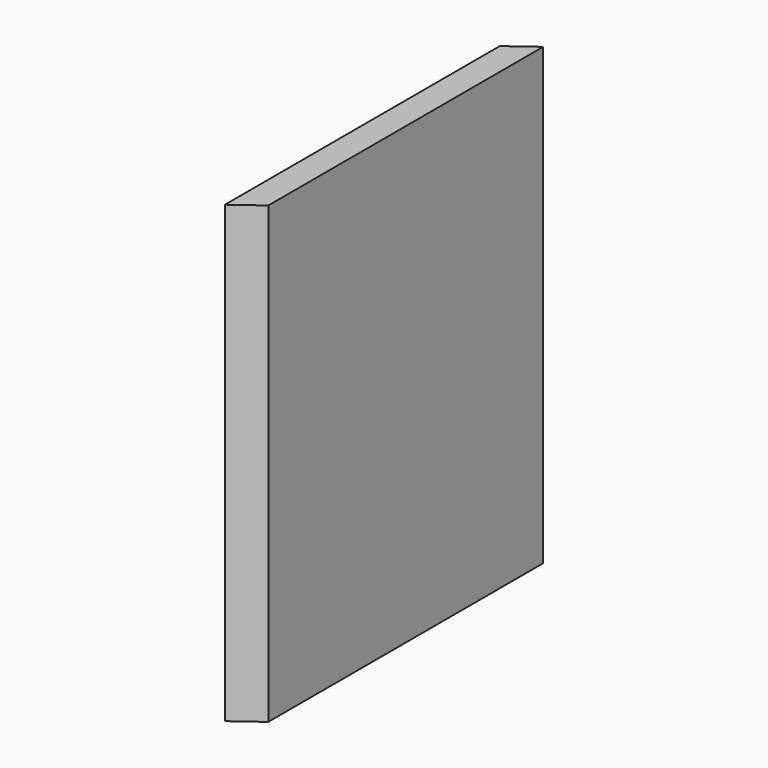
from build123d import *

# Parameters (mm, degrees)
F0_W     = 200
F0_H     = 250
F1_DEPTH = 15
F3_DEPTH = 999


with BuildPart() as f1:
    # F0 (on Right) → F1 (new body)
    with BuildSketch(Plane.YZ):
        Rectangle(F0_W, F0_H)
    extrude(amount=F1_DEPTH)

    # F2 (on face) → F3 (cut)
    with BuildSketch(Plane.XY.offset(125)):
        Polygon((0, 100), (0, 88.900584), (15, 100), align=None)
        Polygon((15, -88.900584), (0, -100), (15, -100), align=None)
    extrude(amount=-F3_DEPTH, mode=Mode.SUBTRACT)


solid = f1.part
